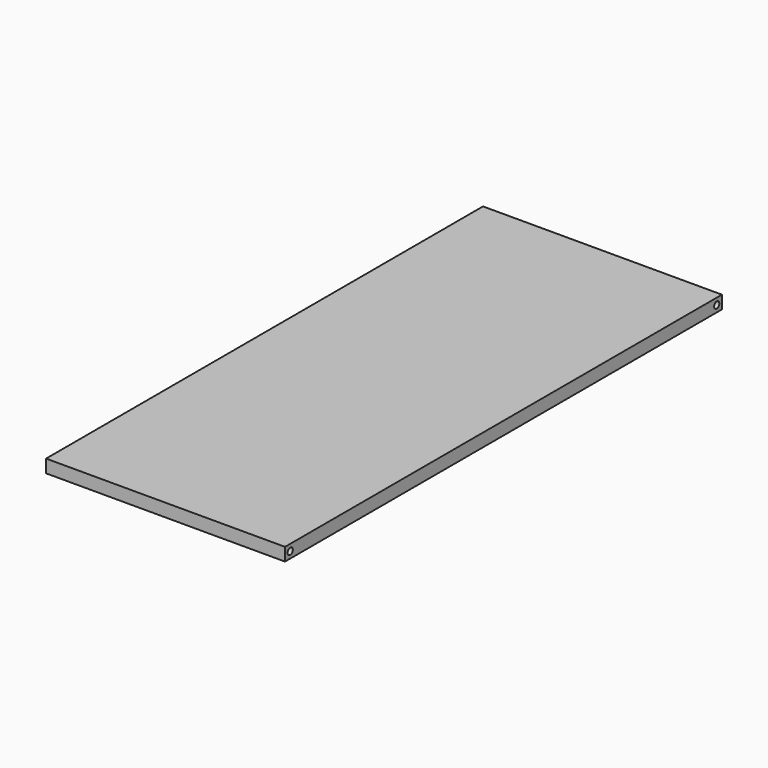
from build123d import *

# Parameters (mm, degrees)
F0_W     = 140
F0_H     = 320
F1_DEPTH = 7.62
F4_R     = 1.905
F5_DEPTH = 140
F3_R     = 1.905
F6_DEPTH = 140


with BuildPart() as f1:
    # F0 (on Top) → F1 (new body)
    with BuildSketch(Plane.XY):
        Rectangle(F0_W, F0_H)
    extrude(amount=F1_DEPTH)

    # F4 (on face) → F5 (cut)
    with BuildSketch(Plane(origin=(-70, 0, 0), x_dir=(0, -1, 0), z_dir=(-1, 0, 0))):
        with Locations((-156.19, 3.81)):
            Circle(F4_R)
    extrude(amount=-F5_DEPTH, mode=Mode.SUBTRACT)

    # F3 (on face) → F6 (cut)
    with BuildSketch(Plane(origin=(-70, 0, 0), x_dir=(0, -1, 0), z_dir=(-1, 0, 0))):
        with Locations((156.19, 3.81)):
            Circle(F3_R)
    extrude(amount=-F6_DEPTH, mode=Mode.SUBTRACT)


solid = f1.part
